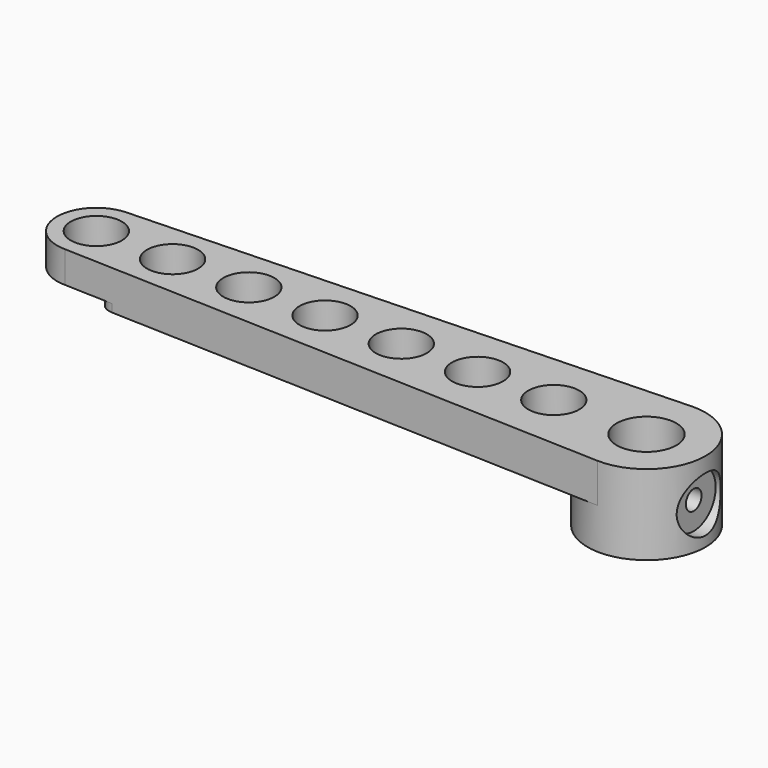
from build123d import *

# Parameters (mm, degrees)
F0_R      = 9.525
F0_R_2    = 4.826
F1_DEPTH  = 12.954
F2_R      = 4.1275
F3_DEPTH  = 6.35
F5_R      = 1.5875
F6_DEPTH  = 31.75
F7_DEPTH  = 25.4
F8_R      = 6.35
F9_DEPTH  = 1.27
F5_R_2    = 4.445
F10_DEPTH = 17.78
F11_R     = 2.54


with BuildPart() as f1:
    # F0 (on Top) → F1 (new body)
    with BuildSketch(Plane.XY):
        Circle(F0_R)
        Circle(F0_R_2, mode=Mode.SUBTRACT)
    extrude(amount=F1_DEPTH)

    # F2 (on face) → F3 (join)
    with BuildSketch(Plane.XY.offset(12.954)):
        with BuildLine():
            ThreePointArc((-0.3406139649, -9.5189078747), (6.6136705763, -6.8545595415), (9.525, 0))
            ThreePointArc((9.525, 0), (6.6137479521, 6.8544848841), (-0.3403990606, 9.5189155622))
            ThreePointArc((-0.3403990606, 9.5189155622), (-9.5249999994, 0.0001075209), (-0.3406139649, -9.5189078747))
        make_face()
        with BuildLine():
            ThreePointArc((-0.3406139649, -9.5189078747), (-9.5249999994, 0.0001075209), (-0.3403990606, 9.5189155622))
            Line((-0.3403990606, 9.5189155622), (-88.965388203, 6.3496633283))
            ThreePointArc((-88.965388203, 6.3496633283), (-84.4330499829, 4.5131870717), (-82.55, 0))
            ThreePointArc((-82.55, 0), (-84.4098719395, -4.4901280605), (-88.9, -6.35))
            Line((-88.9, -6.35), (-0.3406139649, -9.5189078747))
        make_face()
        with Locations((-76.581, 0)):
            Circle(F2_R, mode=Mode.SUBTRACT)
        with Locations((-64.262, 0)):
            Circle(F2_R, mode=Mode.SUBTRACT)
        with Locations((-51.943, 0)):
            Circle(F2_R, mode=Mode.SUBTRACT)
        with Locations((-39.624, 0)):
            Circle(F2_R, mode=Mode.SUBTRACT)
        with Locations((-27.305, 0)):
            Circle(F2_R, mode=Mode.SUBTRACT)
        with Locations((-14.986, 0)):
            Circle(F2_R, mode=Mode.SUBTRACT)
        with BuildLine():
            ThreePointArc((-82.55, 0), (-84.4330499829, 4.5131870717), (-88.965388203, 6.3496633283))
            ThreePointArc((-88.965388203, 6.3496633283), (-95.2499158315, -0.0326945349), (-88.9, -6.35))
            ThreePointArc((-88.9, -6.35), (-84.4098719395, -4.4901280605), (-82.55, 0))
        make_face()
        with Locations((-88.9, 0)):
            Circle(F2_R, mode=Mode.SUBTRACT)
    extrude(amount=-F3_DEPTH)

    # F5 (on offset) → F6 (cut)
    with BuildSketch(Plane.YZ.offset(25.4)):
        with Locations((0, 6.096)):
            Circle(F5_R)
    extrude(amount=-F6_DEPTH, mode=Mode.SUBTRACT)

    # F0 (on Top) → F7 (cut)
    with BuildSketch(Plane.XY):
        Circle(F0_R_2)
    extrude(amount=F7_DEPTH, mode=Mode.SUBTRACT)

    # F8 (on face) → F9 (cut)
    with BuildSketch(Plane(origin=(0, 0, 6.604), x_dir=(1, 0, 0), z_dir=(0, 0, -1))):
        with Locations((-88.9, 0)):
            Circle(F8_R)
    extrude(amount=-F9_DEPTH, mode=Mode.SUBTRACT)

    # F5 (on offset) → F10 (cut)
    with BuildSketch(Plane.YZ.offset(25.4)):
        with Locations((0, 6.096)):
            Circle(F5_R_2)
        with Locations((0, 6.096)):
            Circle(F5_R, mode=Mode.SUBTRACT)
    extrude(amount=-F10_DEPTH, mode=Mode.SUBTRACT)

    # F11
    f11_edges = [f1.edges().sort_by_distance(p)[0] for p in [
        (-88.9, -6.35, 10.414),
        (-88.9, -6.35, 7.239),
        (-88.965388, 6.349663, 10.414),
        (-88.965388, 6.349663, 7.239),
    ]]
    fillet(f11_edges, radius=F11_R)


solid = f1.part
